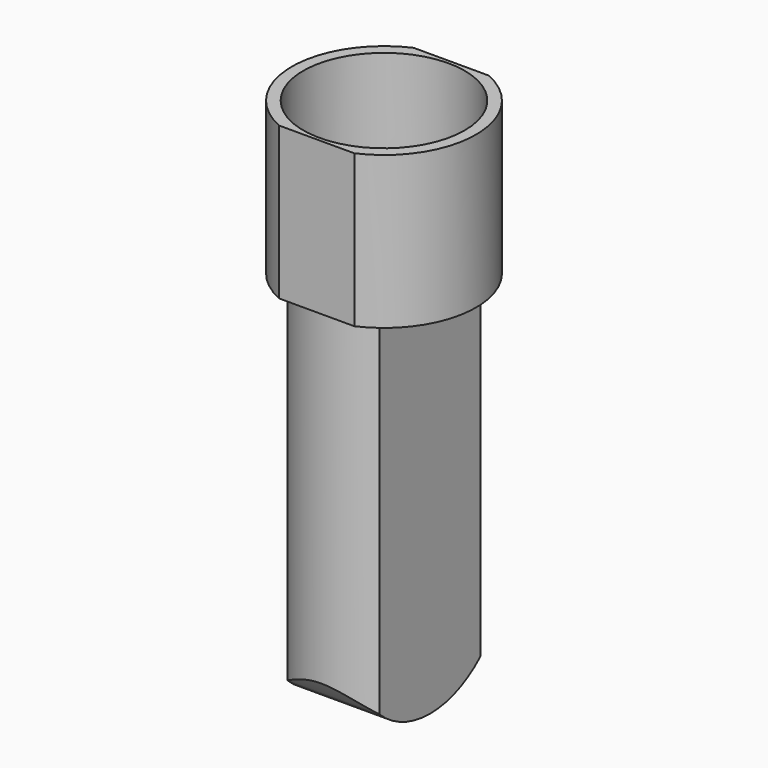
from build123d import *

# Parameters (mm, degrees)
F1_DEPTH = 38
F2_R     = 20.15
F3_DEPTH = 26
F5_DEPTH = 93
F7_DEPTH = 34.501


with BuildPart() as f1:
    # F0 (on Top) → F1 (new body)
    with BuildSketch(Plane.XY):
        with BuildLine():
            Line((9.380832, 21), (-9.380832, 21))
            ThreePointArc((-9.380832, 21), (-23, 0), (-9.380832, -21))
            Line((-9.380832, -21), (9.380832, -21))
            ThreePointArc((9.380832, -21), (23, 0), (9.380832, 21))
        make_face()
    extrude(amount=F1_DEPTH)

    # F2 (on face) → F3 (cut)
    with BuildSketch(Plane.XY.offset(38)):
        Circle(F2_R)
    extrude(amount=-F3_DEPTH, mode=Mode.SUBTRACT)

    # F4 (on face) → F5 (join)
    with BuildSketch(Plane(origin=(0, 0, 0), x_dir=(1, 0, 0), z_dir=(0, 0, -1))):
        with BuildLine():
            Line((-11.5, 15.748016), (-11.5, -15.748016))
            ThreePointArc((-11.5, -15.748016), (0, -19.5), (11.5, -15.748016))
            Line((11.5, -15.748016), (11.5, 15.748016))
            ThreePointArc((11.5, 15.748016), (0, 19.5), (-11.5, 15.748016))
        make_face()
    extrude(amount=F5_DEPTH)

    # F6 (on face) → F7 (cut, through all)
    with BuildSketch(Plane(origin=(-11.5, 0, 0), x_dir=(0, -1, 0), z_dir=(-1, 0, 0))):
        with BuildLine():
            Line((15.748016, -93), (15.748016, -86.763055))
            ThreePointArc((15.748016, -86.763055), (8.469054, -91.383992), (0, -93))
            Line((0, -93), (15.748016, -93))
        make_face()
        with BuildLine():
            Line((-15.748016, -93), (0, -93))
            ThreePointArc((0, -93), (-8.469054, -91.383992), (-15.748016, -86.763055))
            Line((-15.748016, -86.763055), (-15.748016, -93))
        make_face()
        with BuildLine():
            Line((22.997589, -108.386131), (22.997589, -70.332999))
            ThreePointArc((22.997589, -70.332999), (21.042627, -79.284818), (15.748016, -86.763055))
            Line((15.748016, -86.763055), (15.748016, -93))
            Line((15.748016, -93), (0, -93))
            Line((0, -93), (-15.748016, -93))
            Line((-15.748016, -93), (-15.748016, -86.763055))
            ThreePointArc((-15.748016, -86.763055), (-21.30932, -78.655224), (-22.976737, -68.96581))
            Line((-22.976737, -68.96581), (-35.855297, -106.006794))
            Line((-35.855297, -106.006794), (22.997589, -108.386131))
        make_face()
    extrude(amount=-F7_DEPTH, mode=Mode.SUBTRACT)


solid = f1.part
